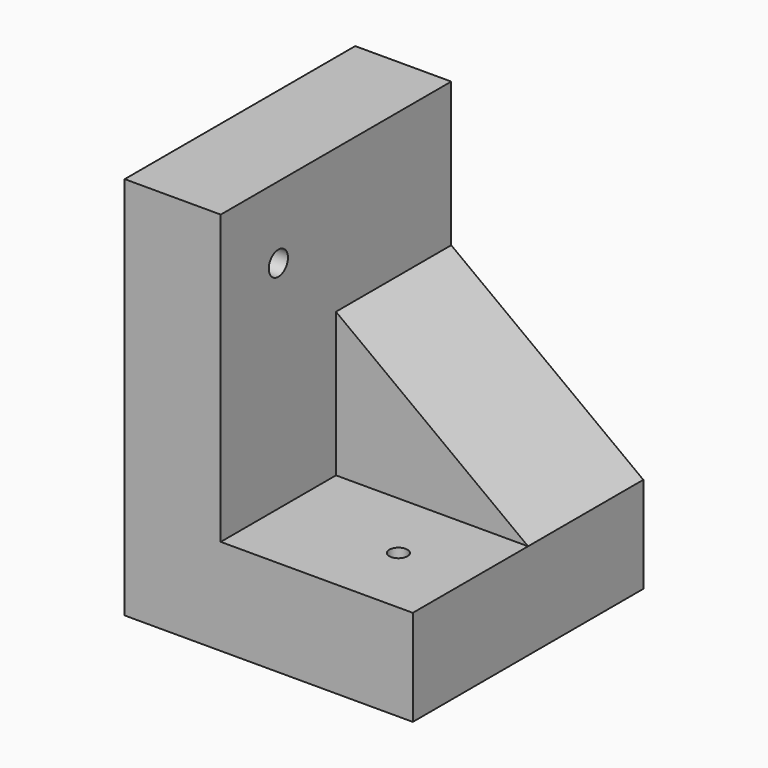
from build123d import *

# Parameters (mm, degrees)
F1_DEPTH = 152.4
F2_W     = 101.6
F2_H     = 76.2
F3_DEPTH = 76.2
F5_DEPTH = 76.2
F7_D     = 9.525
F9_D     = 12.7


with BuildPart() as f1:
    # F0 (on Front) → F1 (new body)
    with BuildSketch(Plane.XZ):
        Polygon((0, 93.900196), (-50.8, 93.900196), (-50.8, -109.299804), (101.6, -109.299804), (101.6, -58.499804), (0, -58.499804), align=None)
    extrude(amount=F1_DEPTH)

    # F2 (on face) → F3 (join)
    with BuildSketch(Plane.XY.offset(-58.499804)):
        with Locations((50.8, -38.1)):
            Rectangle(F2_W, F2_H)
    extrude(amount=F3_DEPTH)

    # F4 (on face) → F5 (cut)
    with BuildSketch(Plane.XZ.offset(76.2)):
        Polygon((101.6, 17.700196), (0, 17.700196), (101.6, -58.499804), align=None)
    extrude(amount=-F5_DEPTH, mode=Mode.SUBTRACT)

    # F7 (through all)
    with Locations(Plane.XY.offset(-58.499804)):
        with Locations((63.5, -114.3)):
            Hole(F7_D / 2)

    # F9 (through all)
    with Locations(Plane.YZ):
        with Locations((-114.3, 55.800196)):
            Hole(F9_D / 2)


solid = f1.part
